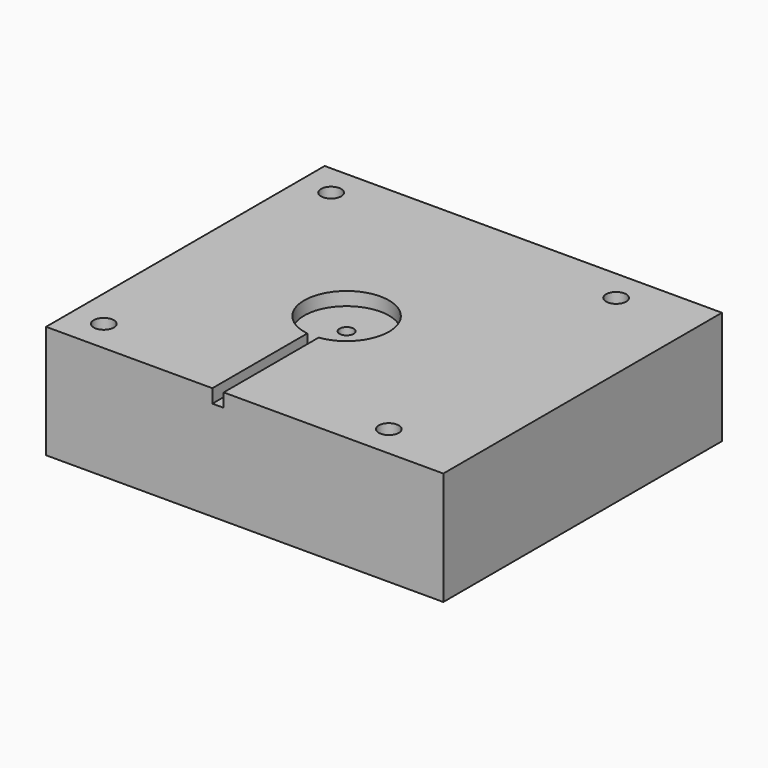
from build123d import *

# Parameters (mm, degrees)
F0_W      = 44.6
F0_H      = 39.1
F1_DEPTH  = 12.7
F2_R      = 1.1303
F3_DEPTH  = 25
F4_R      = 4.7625
F5_DEPTH  = 1.5
F6_R      = 0.79375
F7_DEPTH  = 11.2
F8_R      = 1.984375
F8_R_2    = 0.79375
F9_DEPTH  = 5.842
F11_DEPTH = 1.524


with BuildPart() as f1:
    # F0 (on Top) → F1 (new body)
    with BuildSketch(Plane.XY):
        with Locations((22.3, 19.55)):
            Rectangle(F0_W, F0_H)
    extrude(amount=F1_DEPTH)

    # F2 (on face) → F3 (cut)
    with BuildSketch(Plane.XY.offset(12.7)):
        with Locations((3.6, 35.5)):
            Circle(F2_R)
        with Locations((3.6, 3.6)):
            Circle(F2_R)
        with Locations((35.6, 3.6)):
            Circle(F2_R)
        with Locations((35.6, 35.5)):
            Circle(F2_R)
    extrude(amount=-F3_DEPTH, mode=Mode.SUBTRACT)

    # F4 (on face) → F5 (cut)
    with BuildSketch(Plane.XY.offset(12.7)):
        with Locations((19.3, 18.05)):
            Circle(F4_R)
    extrude(amount=-F5_DEPTH, mode=Mode.SUBTRACT)

    # F6 (on face) → F7 (cut, through all)
    with BuildSketch(Plane.XY.offset(11.2)):
        with Locations((19.3, 18.05)):
            Circle(F6_R)
    extrude(amount=-F7_DEPTH, mode=Mode.SUBTRACT)

    # F8 (on face) → F9 (cut)
    with BuildSketch(Plane(origin=(0, 0, 0), x_dir=(1, 0, 0), z_dir=(0, 0, -1))):
        with Locations((19.3, -18.05)):
            Circle(F8_R)
        with Locations((19.3, -18.05)):
            Circle(F8_R_2, mode=Mode.SUBTRACT)
    extrude(amount=-F9_DEPTH, mode=Mode.SUBTRACT)

    # F10 (on face) → F11 (cut)
    with BuildSketch(Plane.XY.offset(12.7)):
        with BuildLine():
            ThreePointArc((19.939, 13.3305630368), (19.3040360368, 13.2875017102), (18.669, 13.3294867599))
            Line((18.669, 13.3294867599), (18.669, 0))
            Line((18.669, 0), (19.939, 0))
            Line((19.939, 0), (19.939, 13.3305630368))
        make_face()
    extrude(amount=-F11_DEPTH, mode=Mode.SUBTRACT)


solid = f1.part
